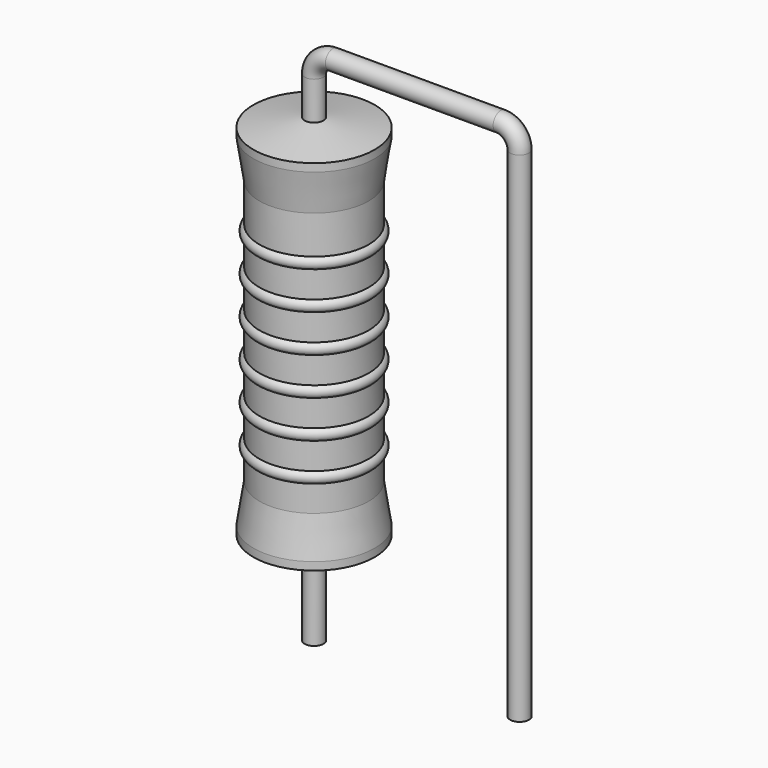
from build123d import *

# Parameters (mm, degrees)
SKETCH_R = 0.35


with BuildPart() as revolution:
    # Sketch002 → Revolution (revolve)
    with BuildSketch(Plane.XZ):
        Polygon((0, 0.1), (0, 14.1), (0.2625, 14.1), (2.25, 13.75), (2.25, 13.4575), (2.025, 12), (2.025, 2.2), (2.25, 0.7425), (2.25, 0.45), (0.2625, 0.1), align=None)
    revolve(axis=Axis((0, 0, 0), (0, 0, 1)))


with BuildPart() as sweep_body:
    # Sweep: sweep along a path in Sketch001
    with BuildLine(Plane.XZ) as sweep_path:
        Line((0, -3), (0, 15.5))
        ThreePointArc((0, 15.5), (0.205022, 15.994972), (0.699992, 16.2))
        Line((0.699992, 16.2), (6.92, 16.2))
        ThreePointArc((6.92, 16.2), (7.414975, 15.994975), (7.62, 15.5))
        Line((7.62, 15.5), (7.62, -3))
    # Sketch → Sweep (sweep)
    with BuildSketch(Plane.XY.offset(-2)):
        Circle(SKETCH_R)
    sweep(path=sweep_path.line)


with BuildPart() as obj1:
    # Sketch003 → Revolution001 (revolve)
    with BuildSketch(Plane.XZ):
        with BuildLine():
            Line((1.8, 11.55), (1.8, 2.2))
            Line((1.8, 2.2), (1.935, 2.2))
            Line((1.935, 2.2), (1.935, 3.15))
            ThreePointArc((1.935, 3.15), (2.16, 3.375), (1.935, 3.6))
            Line((1.935, 3.6), (1.935, 4.55))
            ThreePointArc((1.935, 4.55), (2.16, 4.775), (1.935, 5))
            Line((1.935, 5), (1.935, 5.95))
            ThreePointArc((1.935, 5.95), (2.16, 6.175), (1.935, 6.4))
            Line((1.935, 6.4), (1.935, 7.35))
            ThreePointArc((1.935, 7.35), (2.16, 7.575), (1.935, 7.8))
            Line((1.935, 7.8), (1.935, 8.75))
            ThreePointArc((1.935, 8.75), (2.16, 8.975), (1.935, 9.2))
            Line((1.935, 9.2), (1.935, 10.15))
            ThreePointArc((1.935, 10.15), (2.16, 10.375), (1.935, 10.6))
            Line((1.935, 11.55), (1.935, 10.6))
            Line((1.8, 11.55), (1.935, 11.55))
        make_face()
    revolve(axis=Axis((0, 0, 0), (0, 0, 1)))

    # obj1: union Revolution, Sweep body
    add(revolution.part)
    add(sweep_body.part)


solid = obj1.part
